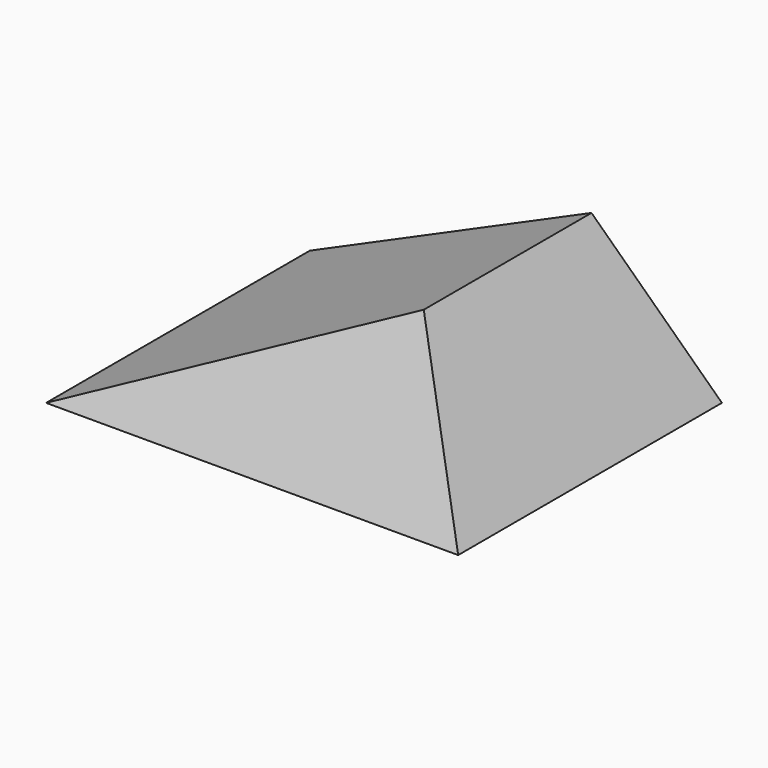
from build123d import *

# Parameters (mm, degrees)
F1_DEPTH      = 8000
F3_DEPTH      = 5000.001
F3_DEPTH_BACK = 5000.001


with BuildPart() as f1:
    # F0 (on Front) → F1 (new body)
    with BuildSketch(Plane.XZ):
        Polygon((3000, 4000), (-5000, 0), (5000, 0), align=None)
    extrude(amount=F1_DEPTH)

    # F2 (on Right) → F3 (cut, two sides)
    with BuildSketch(Plane.YZ) as f3_sk:
        Polygon((0, 0), (0, 4000), (-1455.8809370648, 4000), align=None)
        Polygon((-8000, 0), (-6544.1190629352, 4000), (-8000, 4000), align=None)
    extrude(amount=-F3_DEPTH, mode=Mode.SUBTRACT)
    extrude(f3_sk.sketch, amount=F3_DEPTH_BACK, mode=Mode.SUBTRACT)


solid = f1.part
